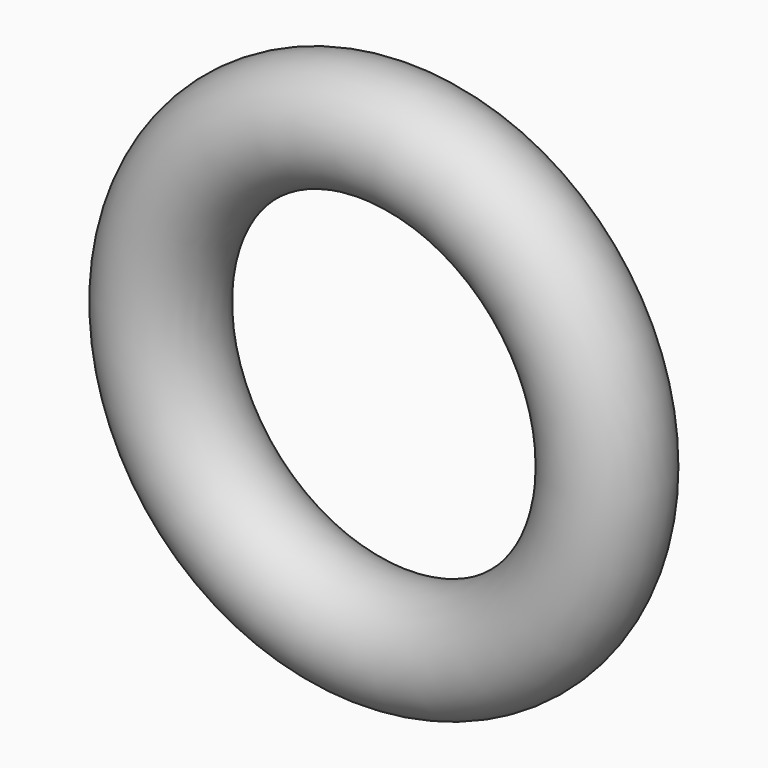
from build123d import *

# Parameters (mm, degrees)
F0_R   = 25
F0_R_2 = 12.5


with BuildPart() as f2:
    # F2: sweep along a path in F1
    with BuildLine(Plane.XZ) as f2_path:
        CenterArc((-100, 0), 100, 0, 360)
    # F0 (on Top) → F2 (sweep)
    with BuildSketch(Plane.XY):
        Circle(F0_R)
        Circle(F0_R_2, mode=Mode.SUBTRACT)
    sweep(path=f2_path.line)


solid = f2.part
